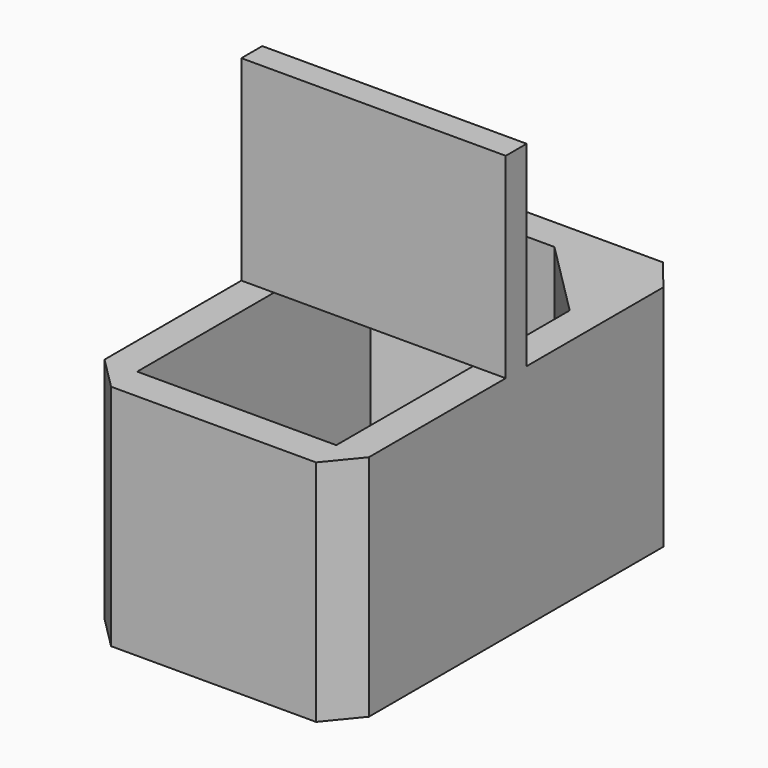
from build123d import *

# Parameters (mm, degrees)
F1_DEPTH = 8.89
F2_W     = 1.27
F2_H     = 1.016
F2_W_2   = 7.747
F3_DEPTH = 7.62


with BuildPart() as f1:
    # F0 (on Top) → F1 (new body)
    with BuildSketch(Plane.XY):
        Polygon((7.9756, -1.27), (9.017, 0), (9.017, 14.3256), (7.9756, 15.5956), (0, 15.5956), (-1.27, 14.3256), (-1.27, 0), (0, -1.27), align=None)
        Polygon((7.747, 0), (0, 0), (0, 11.3531352239), (2.9724647761, 14.3256), (4.7745352239, 14.3256), (7.747, 11.3531352239), align=None, mode=Mode.SUBTRACT)
    extrude(amount=F1_DEPTH)

    # F2 (on face) → F3 (join)
    with BuildSketch(Plane.XY.offset(8.89)):
        with Locations((8.382, 7.1628)):
            Rectangle(F2_W, F2_H)
        with Locations((3.8735, 7.1628)):
            Rectangle(F2_W_2, F2_H)
        with Locations((-0.635, 7.1628)):
            Rectangle(F2_W, F2_H)
    extrude(amount=F3_DEPTH)


solid = f1.part
